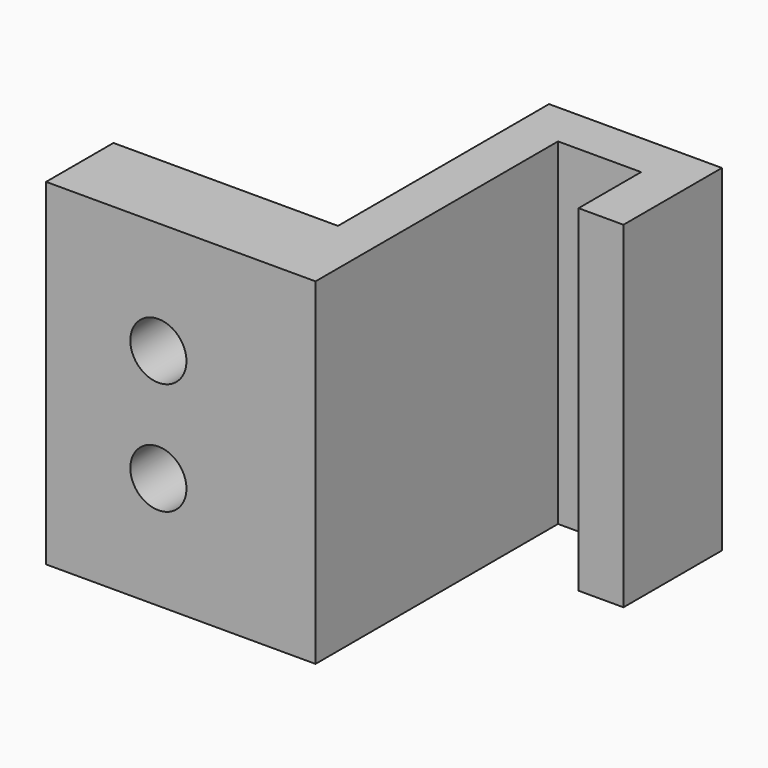
from build123d import *

# Parameters (mm, degrees)
F0_W     = 2.54
F0_H     = 4.4209526072
F0_W_2   = 12.7
F0_H_2   = 4.7643789807
F1_DEPTH = 19.05
F4_D     = 3.175


with BuildPart() as f1:
    # F0 (on Top) → F1 (new body)
    with BuildSketch(Plane.XY):
        Polygon((0, 2.54), (0, 0), (4.699, 0), (7.239, 0), (7.239, 2.54), align=None)
        Polygon((0, -17.145), (0, 0), (0, 2.54), (-2.54, 2.54), (-2.54, -12.3806210193), (-2.54, -17.145), align=None)
        with Locations((5.969, -2.2104763036)):
            Rectangle(F0_W, F0_H)
        with Locations((-8.89, -14.7628105097)):
            Rectangle(F0_W_2, F0_H_2)
    extrude(amount=F1_DEPTH)

    # F4 (through all)
    with Locations(Plane(origin=(0, -12.3806204, 0), x_dir=(1, 0, 0), z_dir=(0, 1, 0))):
        with Locations((-8.8872509077, -12.7), (-8.8872509077, -6.35)):
            Hole(F4_D / 2)


solid = f1.part
